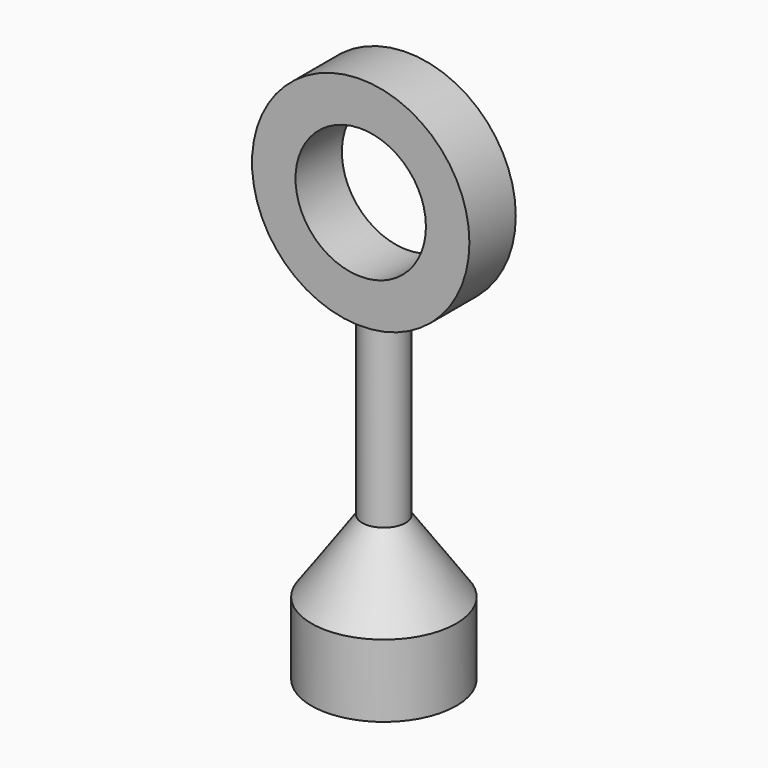
from build123d import *

# Parameters (mm, degrees)
F0_R     = 5
F1_DEPTH = 5
F2_R     = 1.5
F4_DEPTH = 20
F3_R     = 7.5
F3_R_2   = 4.5
F5_DEPTH = 2


with BuildPart() as f1:
    # F0 (on Top) → F1 (new body)
    with BuildSketch(Plane.XY):
        Circle(F0_R)
    extrude(amount=F1_DEPTH)

    # F2 (on face) → F4 (join)
    with BuildSketch(Plane.XY.offset(5)):
        Circle(F2_R)
    extrude(amount=F4_DEPTH)

    # F3 (on Front) → F5 (join, symmetric)
    with BuildSketch(Plane.XZ):
        with Locations((0, 29.75847)):
            Circle(F3_R)
        with Locations((0, 29.75847)):
            Circle(F3_R_2, mode=Mode.SUBTRACT)
    extrude(amount=F5_DEPTH, both=True)

    # F3 (on Front) → F6 (revolve)
    with BuildSketch(Plane.XZ):
        Polygon((5, 5), (0, 12.11049), (0, 5), align=None)
    revolve(axis=Axis((0, 0, 8.555245), (0, 0, -1)))


solid = f1.part
